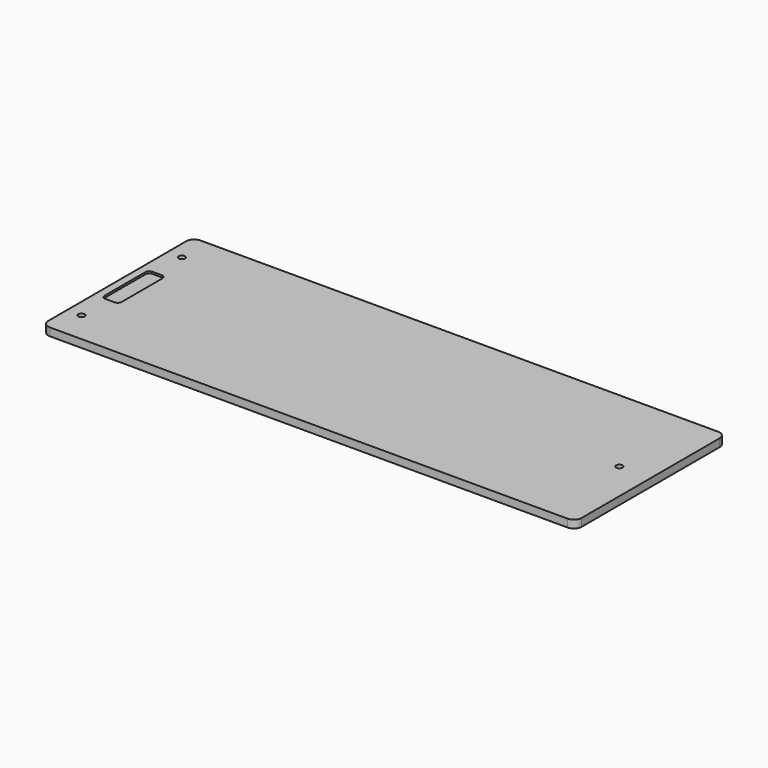
from build123d import *

# Parameters (mm, degrees)
F0_W     = 431.8
F0_H     = 152.4
F0_R     = 2.5527
F1_DEPTH = 6.35
F2_W     = 13.802081
F2_H     = 47.640096
F3_DEPTH = 1.5875
F4_R     = 3.175
F5_R     = 6.35


with BuildPart() as f1:
    # F0 (on Top) → F1 (new body)
    with BuildSketch(Plane.XY):
        Rectangle(F0_W, F0_H)
        with Locations((-204.253972, -50.8)):
            Circle(F0_R, mode=Mode.SUBTRACT)
        with Locations((-204.253972, 50.8)):
            Circle(F0_R, mode=Mode.SUBTRACT)
        with Locations((190.5, 0)):
            Circle(F0_R, mode=Mode.SUBTRACT)
    extrude(amount=F1_DEPTH)

    # F2 (on face) → F3 (cut)
    with BuildSketch(Plane.XY.offset(6.35)):
        with Locations((-202.756658, 0)):
            Rectangle(F2_W, F2_H)
    extrude(amount=-F3_DEPTH, mode=Mode.SUBTRACT)

    # F4
    f4_edges = [f1.edges().sort_by_distance(p)[0] for p in [
        (-209.657699, 23.820048, 5.55625),
        (-195.855618, 23.820048, 5.55625),
        (-209.657699, -23.820048, 5.55625),
        (-195.855618, -23.820048, 5.55625),
    ]]
    fillet(f4_edges, radius=F4_R)

    # F5
    f5_edges = [f1.edges().sort_by_distance(p)[0] for p in [
        (-215.9, -76.2, 3.175),
        (-215.9, 76.2, 3.175),
        (215.9, 76.2, 3.175),
        (215.9, -76.2, 3.175),
    ]]
    fillet(f5_edges, radius=F5_R)


solid = f1.part
